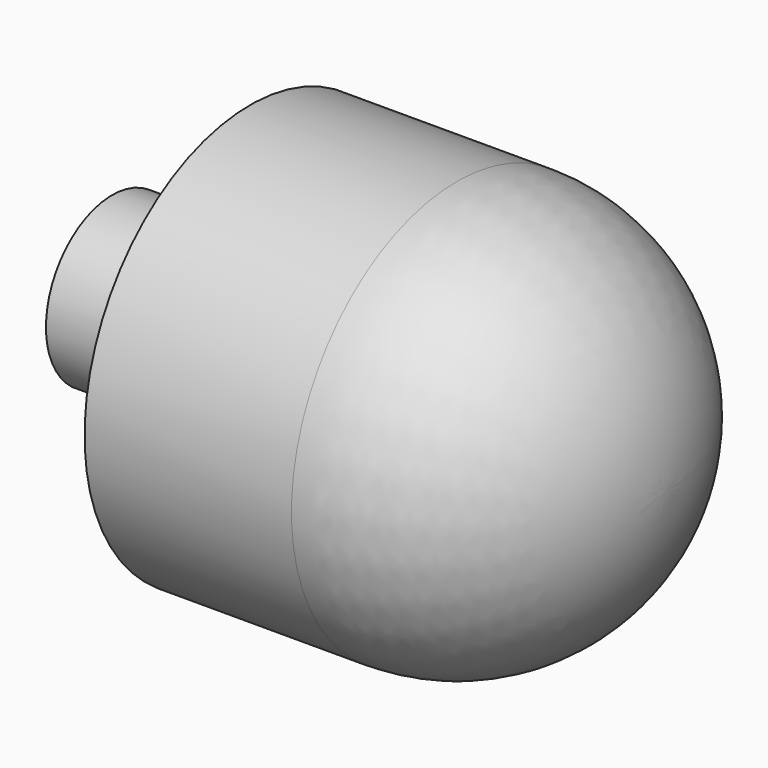
from build123d import *


with BuildPart() as f1:
    # F0 (on Top) → F1 (revolve)
    with BuildSketch(Plane.XY):
        with BuildLine():
            Line((-25, 0), (15, 0))
            ThreePointArc((15, 0), (10.606602, 10.606602), (0, 15))
            Line((0, 15), (-15, 15))
            Line((-15, 15), (-15, 6))
            Line((-15, 6), (-25, 6))
            Line((-25, 6), (-25, 0))
        make_face()
    revolve(axis=Axis((-5, 0, 0), (-1, 0, 0)))


solid = f1.part
